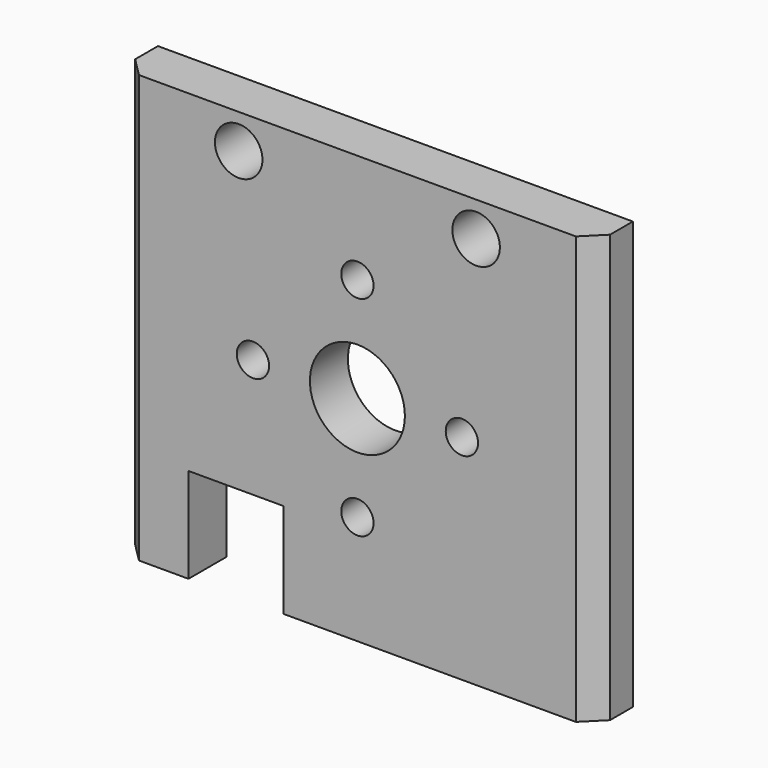
from build123d import *

# Parameters (mm, degrees)
F0_R           = 1.5
F0_R_2         = 2.5
F0_R_3         = 5
F1_DEPTH       = 5
F2_D           = 3.4
F2_CSINK_D     = 6.72
F2_CSINK_ANGLE = 90
F3_SIZE        = 2


with BuildPart() as f1:
    # F0 (on Front) → F1 (new body)
    with BuildSketch(Plane.XZ):
        Polygon((25, -22.5), (25, 22.5), (-25, 22.5), (-25, -22.5), (-17.784204334, -22.5), (-17.784204334, -12.5), (-7.784204334, -12.5), (-7.784204334, -22.5), align=None)
        with Locations((0, -11)):
            Circle(F0_R, mode=Mode.SUBTRACT)
        with Locations((-11, 0)):
            Circle(F0_R, mode=Mode.SUBTRACT)
        with Locations((-12.5, 18.8740361482)):
            Circle(F0_R_2, mode=Mode.SUBTRACT)
        Circle(F0_R_3, mode=Mode.SUBTRACT)
        with Locations((11, 0)):
            Circle(F0_R, mode=Mode.SUBTRACT)
        with Locations((0, 11)):
            Circle(F0_R, mode=Mode.SUBTRACT)
        with Locations((12.5, 18.8740361482)):
            Circle(F0_R_2, mode=Mode.SUBTRACT)
    extrude(amount=F1_DEPTH)

    # F2 (through all)
    with Locations(Plane(origin=(0, 0, 0), x_dir=(1, 0, 0), z_dir=(0, 1, 0))):
        with Locations((-11, 0), (11, 0), (0, -11), (0, 11)):
            CounterSinkHole(F2_D / 2, F2_CSINK_D / 2, counter_sink_angle=F2_CSINK_ANGLE)

    # F3
    f3_edges = [f1.edges().sort_by_distance(p)[0] for p in [
        (25, -5, 0),
        (-25, -5, 0),
    ]]
    chamfer(f3_edges, length=F3_SIZE)


solid = f1.part
